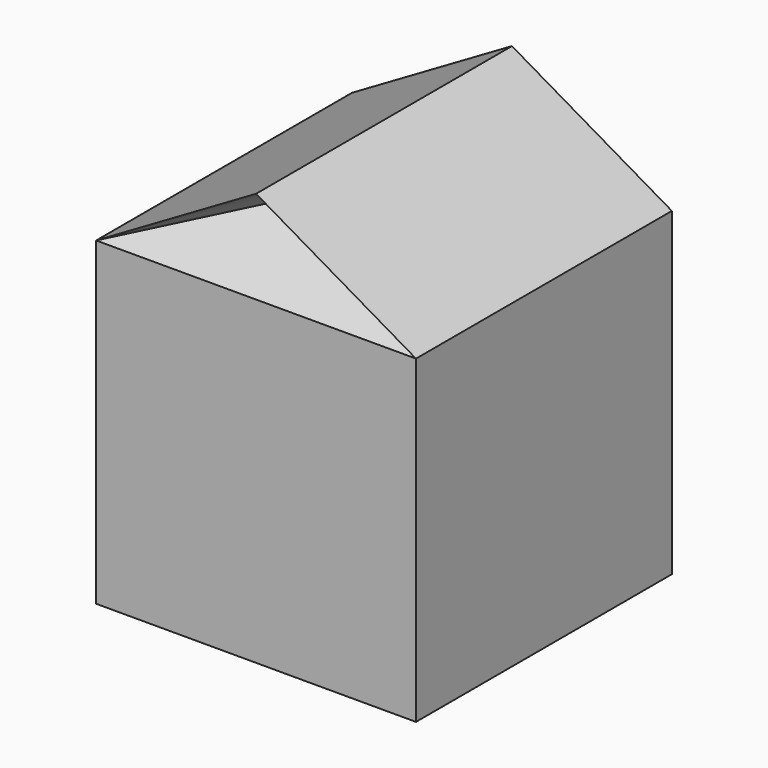
from build123d import *

# Parameters (mm, degrees)
F0_W     = 55
F0_H     = 55
F1_DEPTH = 27.5
F4_DEPTH = 27.5
F6_ANGLE = 45
F8_ANGLE = 45


with BuildPart() as f1:
    # F0 (on Front) → F1 (new body, symmetric)
    with BuildSketch(Plane.XZ):
        Rectangle(F0_W, F0_H)
    extrude(amount=F1_DEPTH, both=True)

    # F3 (on Front) → F4 (join, symmetric)
    with BuildSketch(Plane.XZ):
        Polygon((27.5, 27.5), (0, 43.5133390129), (-27.5, 27.5), align=None)
    extrude(amount=F4_DEPTH, both=True)

    # F5 (on face) → F6 (revolve, cut)
    with BuildSketch(Plane.XZ.offset(27.5)):
        Polygon((0, 43.5133390129), (-27.5, 27.5), (27.5, 27.5), align=None)
    revolve(axis=Axis((0, -27.5, 27.5), (-1, 0, 0)), revolution_arc=F6_ANGLE, mode=Mode.SUBTRACT)

    # F7 (on face) → F8 (revolve, cut)
    with BuildSketch(Plane(origin=(0, 27.5, 0), x_dir=(-1, 0, 0), z_dir=(0, 1, 0))):
        Polygon((0, 43.5133390129), (-27.5, 27.5), (27.5, 27.5), align=None)
    revolve(axis=Axis((0, 27.5, 27.5), (1, 0, 0)), revolution_arc=F8_ANGLE, mode=Mode.SUBTRACT)


solid = f1.part
